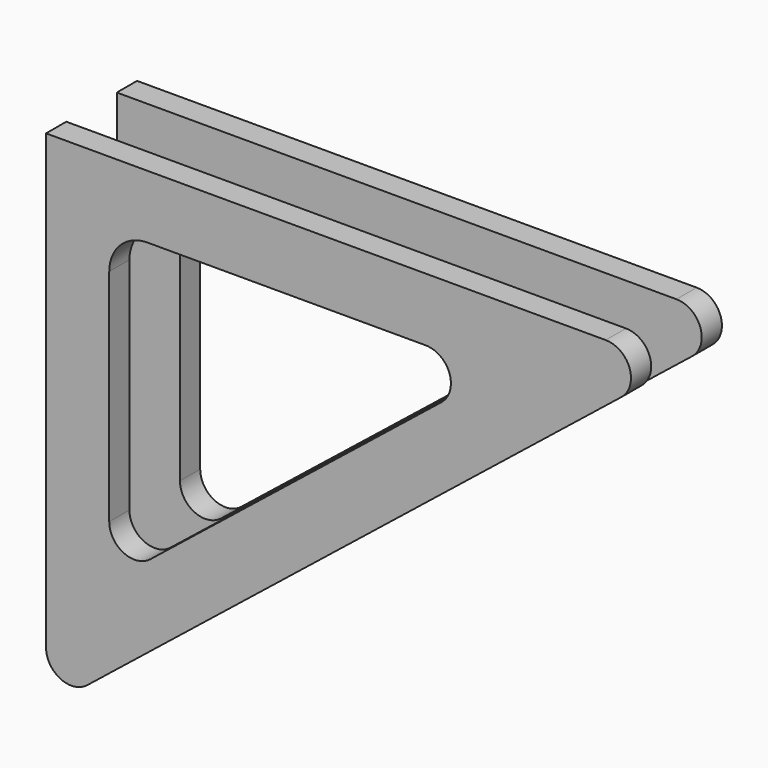
from build123d import *

# Parameters (mm, degrees)
F1_DEPTH = 20


with BuildPart() as f1:
    # F0 (on Front) → F1 (new body)
    with BuildSketch(Plane.XZ):
        with BuildLine():
            Line((442.984379, 0), (0, 0))
            Line((0, 0), (0, -358.387503))
            ThreePointArc((0, -358.387503), (11.336225, -376.413568), (32.493901, -374.004879))
            Line((32.493901, -374.004879), (455.47828, -35.617376))
            ThreePointArc((455.47828, -35.617376), (461.856945, -13.379861), (442.984379, 0))
        make_face()
        with BuildLine():
            ThreePointArc((82.493901, -269.973637), (61.336225, -272.382325), (50, -254.356261))
            Line((50, -254.356261), (50, -80))
            ThreePointArc((50, -80), (58.786797, -58.786797), (80, -50))
            Line((80, -50), (300.445326, -50))
            ThreePointArc((300.445326, -50), (319.317892, -63.379861), (312.939227, -85.617376))
            Line((312.939227, -85.617376), (82.493901, -269.973637))
        make_face(mode=Mode.SUBTRACT)
    extrude(amount=F1_DEPTH)


with BuildPart() as f2_1:
    # F2: copy of F1
    add(f1.part.moved(Location((0, 70, 0))))


solid = Compound([f1.part, f2_1.part])
